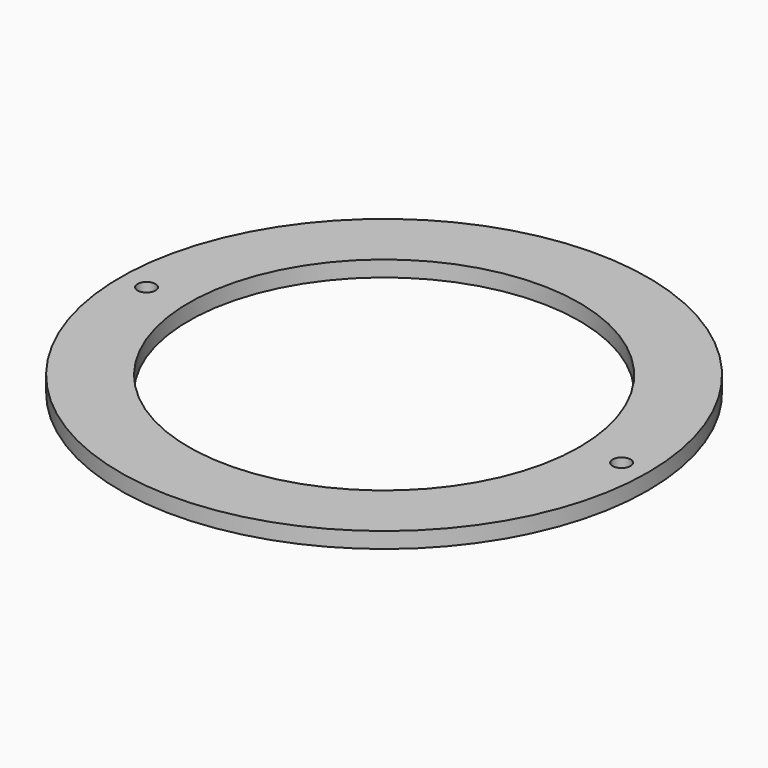
from build123d import *

# Parameters (mm, degrees)
SKETCH_R   = 50
SKETCH_R_2 = 1.7
SKETCH_R_3 = 37
PAD_DEPTH  = 3


with BuildPart() as part:
    # Sketch → Pad (new body)
    with BuildSketch(Plane.XY):
        Circle(SKETCH_R)
        with Locations((-45, 0)):
            Circle(SKETCH_R_2, mode=Mode.SUBTRACT)
        with Locations((45, 0)):
            Circle(SKETCH_R_2, mode=Mode.SUBTRACT)
        Circle(SKETCH_R_3, mode=Mode.SUBTRACT)
    extrude(amount=PAD_DEPTH)


solid = part.part
